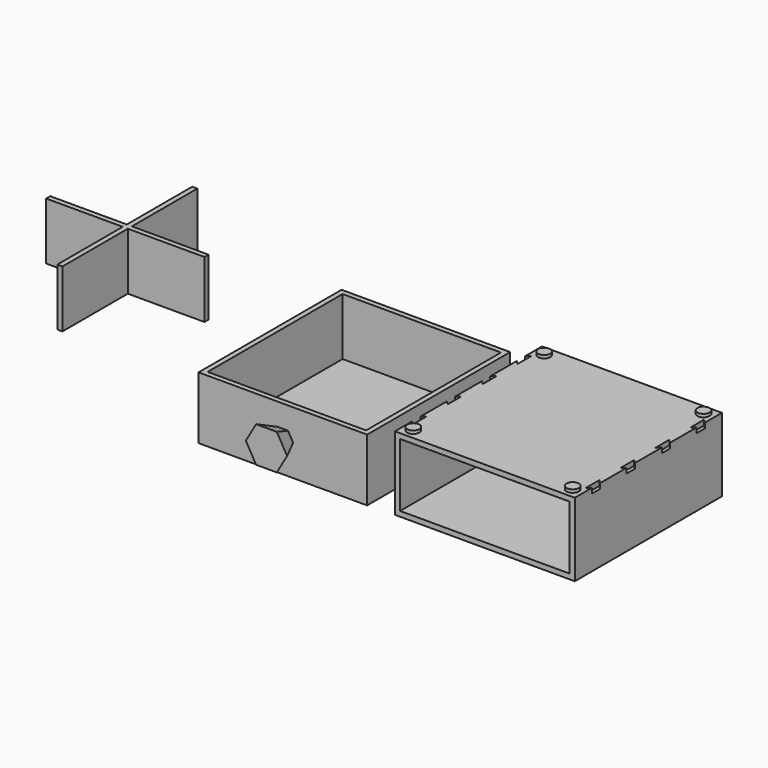
from build123d import *

# Parameters (mm, degrees)
F0_W      = 166
F0_H      = 62
F1_DEPTH  = 5
F0_W_2    = 176
F0_H_2    = 72
F2_DEPTH  = 180
F3_W      = 165
F3_H      = 61
F4_DEPTH  = 175
F5_T      = -5
F10_R     = 6
F11_DEPTH = 75
F10_R_2   = 7
F12_DEPTH = 3
F13_DEPTH = 314
F14_DEPTH = 5
F15_W     = 5
F15_H     = 80
F15_W_2   = 75
F15_H_2   = 5
F16_DEPTH = 56
F18_DEPTH = 5
F19_DEPTH = 3
F19_TAPER = -3


with BuildPart() as f1:
    # F0 (on Front) → F1 (new body)
    with BuildSketch(Plane.XZ):
        with Locations((61.2605069876, 18.4339095503)):
            Rectangle(F0_W, F0_H)
    extrude(amount=F1_DEPTH)

    # F0 (on Front) → F2 (join)
    with BuildSketch(Plane.XZ):
        with Locations((61.2605069876, 18.4339095503)):
            Rectangle(F0_W_2, F0_H_2)
        with Locations((61.2605069876, 18.4339095503)):
            Rectangle(F0_W, F0_H, mode=Mode.SUBTRACT)
    extrude(amount=F2_DEPTH)

    # F10 (on face) → F11 (join)
    with BuildSketch(Plane(origin=(0, 0, -17.5660904497), x_dir=(1, 0, 0), z_dir=(0, 0, -1))):
        with Locations((-16.7394930124, 170)):
            Circle(F10_R)
        with Locations((139.2605069876, 170)):
            Circle(F10_R)
        with Locations((139.2605069876, 10)):
            Circle(F10_R)
        with Locations((-16.7394930124, 10)):
            Circle(F10_R)
    extrude(amount=-F11_DEPTH)

    # F10 (on face) → F12 (cut)
    with BuildSketch(Plane(origin=(0, 0, -17.5660904497), x_dir=(1, 0, 0), z_dir=(0, 0, -1))):
        with Locations((-16.7394930124, 170)):
            Circle(F10_R_2)
        with Locations((-16.7394930124, 170)):
            Circle(F10_R, mode=Mode.SUBTRACT)
        with Locations((139.2605069876, 170)):
            Circle(F10_R_2)
        with Locations((139.2605069876, 170)):
            Circle(F10_R, mode=Mode.SUBTRACT)
        with Locations((139.2605069876, 10)):
            Circle(F10_R_2)
        with Locations((139.2605069876, 10)):
            Circle(F10_R, mode=Mode.SUBTRACT)
        with Locations((-16.7394930124, 10)):
            Circle(F10_R_2)
        with Locations((-16.7394930124, 10)):
            Circle(F10_R, mode=Mode.SUBTRACT)
    extrude(amount=-F12_DEPTH, mode=Mode.SUBTRACT)

    # F0 (on Front) → F13 (cut)
    with BuildSketch(Plane.XZ):
        with Locations((61.2605069876, 18.4339095503)):
            Rectangle(F0_W, F0_H)
    extrude(amount=F13_DEPTH, mode=Mode.SUBTRACT)

    # F0 (on Front) → F14 (join)
    with BuildSketch(Plane.XZ):
        with Locations((61.2605069876, 18.4339095503)):
            Rectangle(F0_W, F0_H)
    extrude(amount=F14_DEPTH)

    # F17 (on face) → F18 (cut)
    with BuildSketch(Plane.XY.offset(54.4339095503)):
        Polygon((-23.2039591065, -17.4644660941), (-26.7394930124, -21), (-26.7394930124, -31), (-23.2039591065, -34.5355339059), align=None)
        Polygon((-26.7394930124, -63.5), (-26.7394930124, -73.5), (-23.2039591065, -77.0355339059), (-23.2039591065, -59.9644660941), align=None)
        Polygon((-26.7394930124, -106.5), (-26.7394930124, -116.5), (-23.2039591065, -120.0355339059), (-23.2039591065, -102.9644660941), align=None)
        Polygon((-26.7394930124, -149), (-26.7394930124, -159), (-23.2039591065, -162.5355339059), (-23.2039591065, -145.4644660941), align=None)
        Polygon((149.2605069876, -159), (149.2605069876, -149), (145.7249730816, -145.4644660941), (145.7249730816, -162.5355339059), align=None)
        Polygon((145.7249730816, -120.0355339059), (149.2605069876, -116.5), (149.2605069876, -106.5), (145.7249730816, -102.9644660941), align=None)
        Polygon((145.7249730816, -77.0355339059), (149.2605069876, -73.5), (149.2605069876, -63.5), (145.7249730816, -59.9644660941), align=None)
        Polygon((145.7249730816, -34.5355339059), (149.2605069876, -31), (149.2605069876, -21), (145.7249730816, -17.4644660941), align=None)
    extrude(amount=-F18_DEPTH, mode=Mode.SUBTRACT)

    # F10 (on face) → F19 (cut)
    with BuildSketch(Plane(origin=(0, 0, -17.5660904497), x_dir=(1, 0, 0), z_dir=(0, 0, -1))):
        with Locations((-16.7394930124, 10)):
            Circle(F10_R)
        with Locations((139.2605069876, 10)):
            Circle(F10_R)
        with Locations((139.2605069876, 170)):
            Circle(F10_R)
        with Locations((-16.7394930124, 170)):
            Circle(F10_R)
    extrude(amount=-F19_DEPTH, taper=F19_TAPER, mode=Mode.SUBTRACT)


with BuildPart() as f4:
    # F3 (on Front) → F4 (new body)
    with BuildSketch(Plane.XZ):
        with Locations((-140.4871451855, 8.8723950386)):
            Rectangle(F3_W, F3_H)
        with Locations((-140.4871451855, 8.8723950386)):
            Rectangle(F3_W, F3_H)
    extrude(amount=F4_DEPTH)

    # F5
    f5_openings = [f4.faces().sort_by_distance(p)[0] for p in [
        (-140.487145, -87.5, 39.372395),
    ]]
    offset(amount=F5_T, openings=f5_openings)

    # F6 (on face) → F9 section 0
    with BuildSketch(Plane.XZ.offset(175)):
        Polygon((-130.3835418418, 8.8493124353), (-135.4153533928, 17.6108309024), (-145.5189567365, 17.6339135056), (-150.5907485292, 8.8954776419), (-145.5589369781, 0.1339591748), (-135.4553336344, 0.1108765716), align=None)
    # F8 (on offset) → F9 section 1
    with BuildSketch(Plane.XZ.offset(195)):
        Polygon((-120.2799384981, 8.8262298321), (-130.3435616002, 26.3492667662), (-150.5507682876, 26.3954319727), (-160.6943518729, 8.9185602451), (-150.6307287708, -8.6044766889), (-130.4235220834, -8.6506418955), align=None)
    loft()


with BuildPart() as f16:
    # F15 (on face) → F16 (new body)
    with BuildSketch(Plane.XY.offset(-16.6276049614)):
        with Locations((-416.180999279, 21.8830779195)):
            Rectangle(F15_W, F15_H)
        with Locations((-456.180999279, -20.6169220805)):
            Rectangle(F15_W_2, F15_H_2)
        with Locations((-416.180999279, -20.6169220805)):
            Rectangle(F15_W, F15_H_2)
        with Locations((-376.180999279, -20.6169220805)):
            Rectangle(F15_W_2, F15_H_2)
        with Locations((-416.180999279, -63.1169220805)):
            Rectangle(F15_W, F15_H)
    extrude(amount=F16_DEPTH)


solid = Compound([f1.part, f4.part, f16.part])
